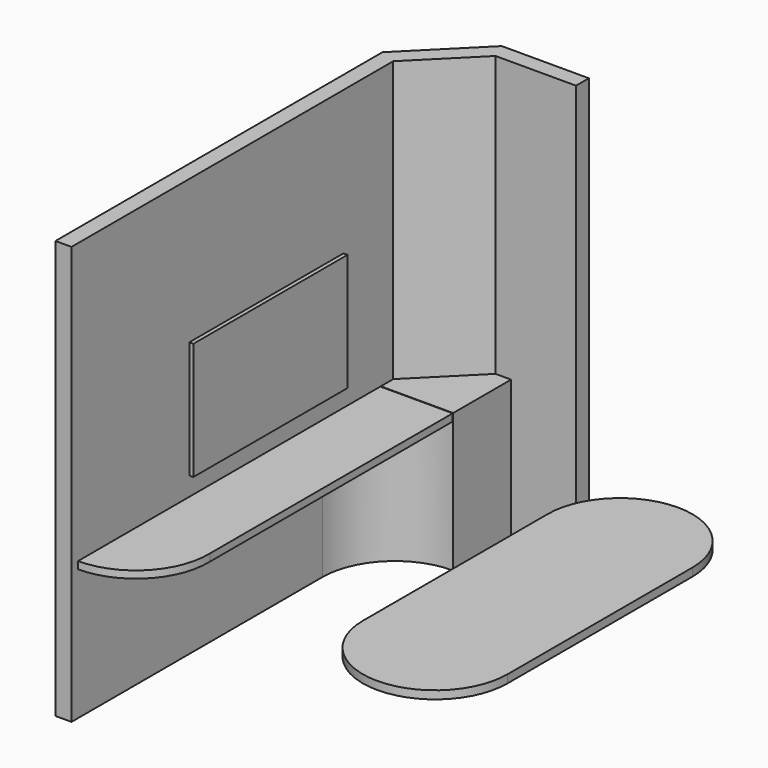
from build123d import *

# Parameters (mm, degrees)
F1_DEPTH = 2600
F2_DEPTH = 860
F0_W     = 450
F0_H     = 1436.1935516499
F3_DEPTH = 800
F4_DEPTH = 815
F5_DEPTH = 750
F6_W     = 1197.8597640991
F6_H     = 729.3516397476
F7_DEPTH = 25


with BuildPart() as f1:
    # F0 (on Top) → F1 (new body)
    with BuildSketch(Plane.XY):
        Polygon((-403.5533905933, 0), (0, 0), (0, 100), (-541.4213562373, 100), (-953.5533905933, -312.132034356), (-953.5533905933, -2853.5533905933), (-853.5533905933, -2853.5533905933), (-853.5533905933, -2803.5533905933), (-853.5533905933, -1614.7469422431), (-853.5533905933, -903.5533905933), (-853.5533905933, -453.5533905933), (-853.5533905933, -450.0033905933), (-853.5533905933, -353.5533905933), (-500, 0), align=None)
    extrude(amount=F1_DEPTH)


with BuildPart() as f2:
    # F0 (on Top) → F2 (new body)
    with BuildSketch(Plane.XY):
        Polygon((-403.5533905933, -450.0033905933), (-403.5533905933, 0), (-500, 0), (-853.5533905933, -353.5533905933), (-853.5533905933, -450.0033905933), align=None)
    extrude(amount=F2_DEPTH)


with BuildPart() as f2b:
    # F0 (on Top) → F2, piece 2 (new body)
    with BuildSketch(Plane.XY):
        with BuildLine():
            Line((-403.5533905933, -453.5533905933), (-853.5533905933, -453.5533905933))
            Line((-853.5533905933, -453.5533905933), (-853.5533905933, -903.5533905933))
            ThreePointArc((-853.5533905933, -903.5533905933), (-721.7514421272, -585.3553390593), (-403.5533905933, -453.5533905933))
        make_face()
        with BuildLine():
            ThreePointArc((-403.5533905933, -453.5533905933), (-721.7514421272, -585.3553390593), (-853.5533905933, -903.5533905933))
            Line((-853.5533905933, -903.5533905933), (-853.5533905933, -1614.7469422431))
            Line((-853.5533905933, -1614.7469422431), (-403.5533905933, -1614.7469422431))
            Line((-403.5533905933, -1614.7469422431), (-403.5533905933, -453.5533905933))
        make_face()
        with BuildLine():
            Line((-403.5533905933, -1614.7469422431), (-853.5533905933, -1614.7469422431))
            Line((-853.5533905933, -1614.7469422431), (-853.5533905933, -2803.5533905933))
            ThreePointArc((-853.5533905933, -2803.5533905933), (-530.4371493073, -2666.845713474), (-403.5533905933, -2339.7469422432))
            Line((-403.5533905933, -2339.7469422432), (-403.5533905933, -1614.7469422431))
        make_face()
    extrude(amount=F2_DEPTH)

    # F0 (on Top) → F4 (cut)
    with BuildSketch(Plane.XY):
        with BuildLine():
            Line((-403.5533905933, -1614.7469422431), (-853.5533905933, -1614.7469422431))
            Line((-853.5533905933, -1614.7469422431), (-853.5533905933, -2803.5533905933))
            ThreePointArc((-853.5533905933, -2803.5533905933), (-530.4371493073, -2666.845713474), (-403.5533905933, -2339.7469422432))
            Line((-403.5533905933, -2339.7469422432), (-403.5533905933, -1614.7469422431))
        make_face()
        with BuildLine():
            ThreePointArc((-403.5533905933, -453.5533905933), (-721.7514421272, -585.3553390593), (-853.5533905933, -903.5533905933))
            Line((-853.5533905933, -903.5533905933), (-853.5533905933, -1614.7469422431))
            Line((-853.5533905933, -1614.7469422431), (-403.5533905933, -1614.7469422431))
            Line((-403.5533905933, -1614.7469422431), (-403.5533905933, -453.5533905933))
        make_face()
    extrude(amount=F4_DEPTH, mode=Mode.SUBTRACT)


with BuildPart() as f3:
    # F0 (on Top) → F3 (new body)
    with BuildSketch(Plane.XY):
        with BuildLine():
            Line((996.4127063751, -453.5533905933), (996.4127063751, -903.5533905933))
            Line((996.4127063751, -903.5533905933), (996.4127063751, -2339.7469422431))
            Line((996.4127063751, -2339.7469422432), (996.4127063751, -2789.7469422432))
            ThreePointArc((996.4127063751, -2789.7469422432), (1314.6107579091, -2657.9449937771), (1446.4127063751, -2339.7469422432))
            Line((1446.4127063751, -2339.7469422432), (1446.4127063751, -903.5533905933))
            ThreePointArc((1446.4127063751, -903.5533905933), (1314.6107579091, -585.3553390593), (996.4127063751, -453.5533905933))
        make_face()
        with Locations((771.4127063751, -1621.6501664182)):
            Rectangle(F0_W, F0_H)
        with BuildLine():
            Line((546.4127063751, -903.5533905933), (996.4127063751, -903.5533905933))
            Line((996.4127063751, -903.5533905933), (996.4127063751, -453.5533905933))
            ThreePointArc((996.4127063751, -453.5533905933), (678.2146548412, -585.3553390593), (546.4127063751, -903.5533905933))
        make_face()
        with BuildLine():
            Line((996.4127063751, -2789.7469422432), (996.4127063751, -2339.7469422432))
            Line((996.4127063751, -2339.7469422432), (546.4127063751, -2339.7469422432))
            ThreePointArc((546.4127063751, -2339.7469422432), (678.2146548412, -2657.9449937771), (996.4127063751, -2789.7469422432))
        make_face()
    extrude(amount=F3_DEPTH)

    # F0 (on Top) → F5 (cut)
    with BuildSketch(Plane.XY):
        with Locations((771.4127063751, -1621.6501664182)):
            Rectangle(F0_W, F0_H)
        with BuildLine():
            Line((996.4127063751, -453.5533905933), (996.4127063751, -903.5533905933))
            Line((996.4127063751, -903.5533905933), (996.4127063751, -2339.7469422431))
            Line((996.4127063751, -2339.7469422432), (996.4127063751, -2789.7469422432))
            ThreePointArc((996.4127063751, -2789.7469422432), (1314.6107579091, -2657.9449937771), (1446.4127063751, -2339.7469422432))
            Line((1446.4127063751, -2339.7469422432), (1446.4127063751, -903.5533905933))
            ThreePointArc((1446.4127063751, -903.5533905933), (1314.6107579091, -585.3553390593), (996.4127063751, -453.5533905933))
        make_face()
        with BuildLine():
            Line((996.4127063751, -2789.7469422432), (996.4127063751, -2339.7469422432))
            Line((996.4127063751, -2339.7469422432), (546.4127063751, -2339.7469422432))
            ThreePointArc((546.4127063751, -2339.7469422432), (678.2146548412, -2657.9449937771), (996.4127063751, -2789.7469422432))
        make_face()
        with BuildLine():
            Line((546.4127063751, -903.5533905933), (996.4127063751, -903.5533905933))
            Line((996.4127063751, -903.5533905933), (996.4127063751, -453.5533905933))
            ThreePointArc((996.4127063751, -453.5533905933), (678.2146548412, -585.3553390593), (546.4127063751, -903.5533905933))
        make_face()
    extrude(amount=F5_DEPTH, mode=Mode.SUBTRACT)


with BuildPart() as f7:
    # F6 (on face) → F7 (new body)
    with BuildSketch(Plane.YZ.offset(-853.5533905933)):
        with Locations((-1339.139342308, 1340.9360051155)):
            Rectangle(F6_W, F6_H)
    extrude(amount=F7_DEPTH)


solid = Compound([f1.part, f2.part, f2b.part, f3.part, f7.part])
